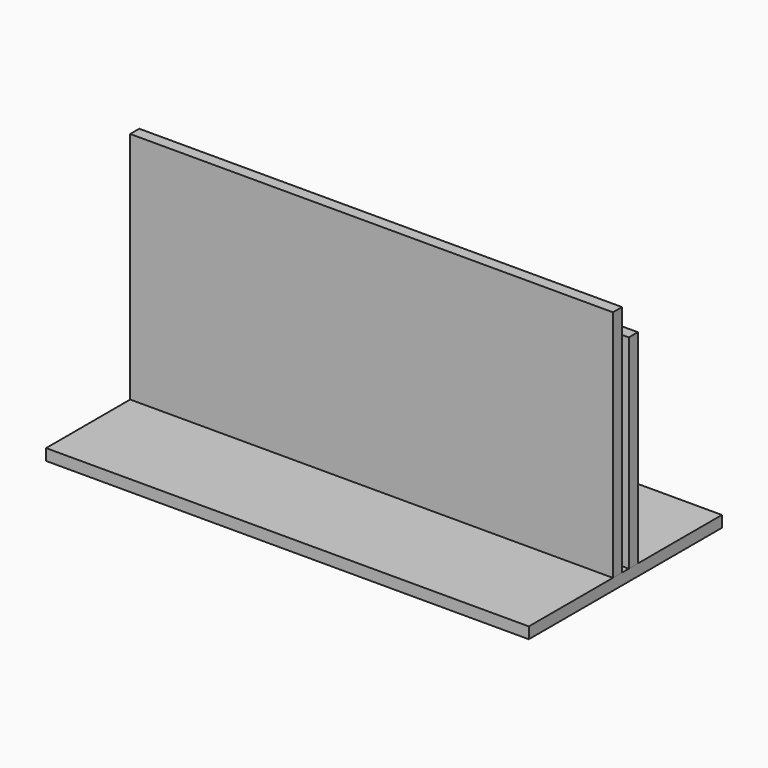
from build123d import *

# Parameters (mm, degrees)
F0_W      = 812.8
F0_H      = 406.4
F1_DEPTH  = 19.05
F2_W      = 812.8
F2_H      = 52.3875
F3_DEPTH  = 0.0254
F4_W      = 812.8
F4_H      = 19.05
F5_DEPTH  = 393.7
F6_W      = 812.8
F6_H      = 50.8
F7_DEPTH  = 19.05
F8_W      = 812.8
F8_H      = 342.9
F9_DEPTH  = 0.0254
F10_W     = 812.8
F10_H     = 342.9
F11_DEPTH = 0.0254
F12_W     = 812.8
F12_H     = 393.7
F13_DEPTH = 0.0254
F14_W     = 812.8
F14_H     = 393.7
F15_DEPTH = 0.0254
F16_W     = 812.8
F16_H     = 406.4
F17_DEPTH = 0.0254
F18_R     = 22.225
F19_DEPTH = 3.175
F20_W     = 812.8
F20_H     = 406.4
F20_R     = 22.225
F21_DEPTH = 0.0254


with BuildPart() as f1:
    # F0 (on Top) → F1 (new body)
    with BuildSketch(Plane.XY):
        Rectangle(F0_W, F0_H)
    extrude(amount=F1_DEPTH)

    # F2 (on face) → F3 (cut)
    with BuildSketch(Plane.XY.offset(19.05)):
        Rectangle(F2_W, F2_H)
    extrude(amount=-F3_DEPTH, mode=Mode.SUBTRACT)

    # F18 (on face) → F19 (cut)
    with BuildSketch(Plane(origin=(0, 0, 0), x_dir=(1, 0, 0), z_dir=(0, 0, -1))):
        with Locations((-368.3, 165.1)):
            Circle(F18_R)
        with Locations((-368.3, -165.1)):
            Circle(F18_R)
        with Locations((368.3, -165.1)):
            Circle(F18_R)
        with Locations((368.3, 165.1)):
            Circle(F18_R)
    extrude(amount=-F19_DEPTH, mode=Mode.SUBTRACT)


with BuildPart() as f5:
    # F4 (on face) → F5 (new body)
    with BuildSketch(Plane.XY.offset(19.0246)):
        with Locations((0, -16.66875)):
            Rectangle(F4_W, F4_H)
        with Locations((0, 16.66875)):
            Rectangle(F4_W, F4_H)
    extrude(amount=F5_DEPTH)

    # F6 (on face) → F7 (cut, through all)
    with BuildSketch(Plane(origin=(0, 26.19375, 0), x_dir=(-1, 0, 0), z_dir=(0, 1, 0))):
        with Locations((0, 387.3246)):
            Rectangle(F6_W, F6_H)
    extrude(amount=-F7_DEPTH, mode=Mode.SUBTRACT)


with BuildPart() as f9:
    # F8 (on face) → F9 (new body)
    with BuildSketch(Plane(origin=(0, 26.19375, 0), x_dir=(-1, 0, 0), z_dir=(0, 1, 0))):
        with Locations((0, 190.4746)):
            Rectangle(F8_W, F8_H)
    extrude(amount=F9_DEPTH)


with BuildPart() as f11:
    # F10 (on face) → F11 (new body)
    with BuildSketch(Plane.XZ.offset(-7.14375)):
        with Locations((0, 190.4746)):
            Rectangle(F10_W, F10_H)
    extrude(amount=F11_DEPTH)


with BuildPart() as f13:
    # F12 (on face) → F13 (new body)
    with BuildSketch(Plane(origin=(0, -7.14375, 0), x_dir=(-1, 0, 0), z_dir=(0, 1, 0))):
        with Locations((0, 215.8746)):
            Rectangle(F12_W, F12_H)
    extrude(amount=F13_DEPTH)


with BuildPart() as f15:
    # F14 (on face) → F15 (new body)
    with BuildSketch(Plane.XZ.offset(26.19375)):
        with Locations((0, 215.8746)):
            Rectangle(F14_W, F14_H)
    extrude(amount=F15_DEPTH)


with BuildPart() as f17:
    # F16 (on face) → F17 (new body)
    with BuildSketch(Plane.XY.offset(19.05)):
        Rectangle(F16_W, F16_H)
    extrude(amount=F17_DEPTH)


with BuildPart() as f21:
    # F20 (on face) → F21 (new body)
    with BuildSketch(Plane(origin=(0, 0, 0), x_dir=(1, 0, 0), z_dir=(0, 0, -1))):
        Rectangle(F20_W, F20_H)
        with Locations((-368.3, -165.1)):
            Circle(F20_R, mode=Mode.SUBTRACT)
        with Locations((368.3, -165.1)):
            Circle(F20_R, mode=Mode.SUBTRACT)
        with Locations((-368.3, 165.1)):
            Circle(F20_R, mode=Mode.SUBTRACT)
        with Locations((368.3, 165.1)):
            Circle(F20_R, mode=Mode.SUBTRACT)
    extrude(amount=F21_DEPTH)


solid = Compound([f1.part, f5.part, f9.part, f11.part, f13.part, f15.part, f17.part, f21.part])
